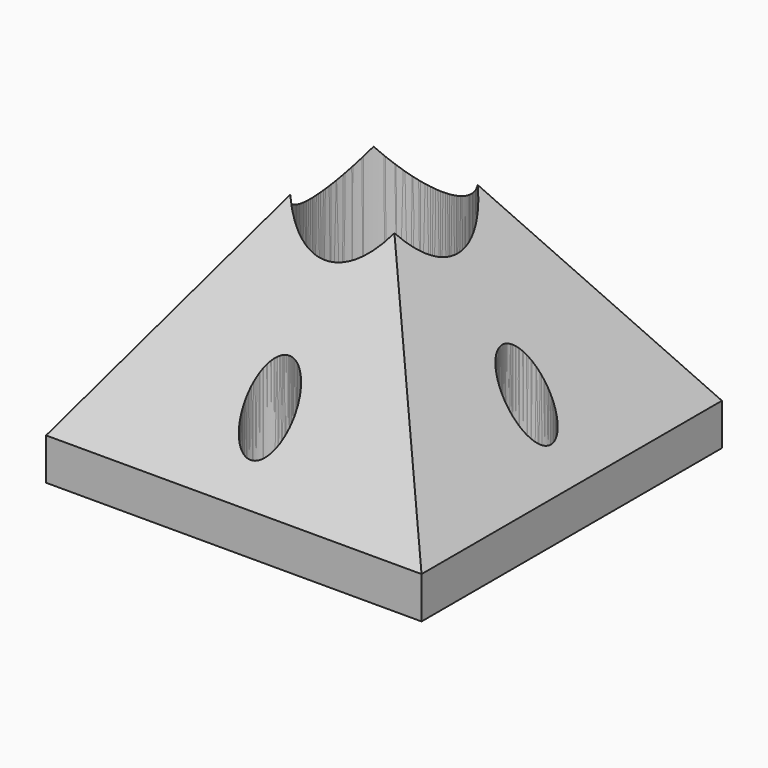
from build123d import *

# Parameters (mm, degrees)
F1_DEPTH  = 34.29
F3_DEPTH  = 34.29
F5_DEPTH  = 38.1
F7_DEPTH  = 38.1
F9_DEPTH  = 38.1
F11_DEPTH = 38.1
F12_R     = 13.462
F13_DEPTH = 53.34
F14_R     = 4.445
F15_DEPTH = 22.86
F16_W     = 68.58
F16_H     = 68.58
F17_DEPTH = 7.62
F18_R     = 2.2225
F19_DEPTH = 12.7


with BuildPart() as f1:
    # F0 (on Front) → F1 (new body, symmetric)
    with BuildSketch(Plane.XZ):
        Polygon((0, 50.8), (-34.29, 0), (34.29, 0), align=None)
    extrude(amount=F1_DEPTH, both=True)

    # F8 (on Right) → F9 (cut, symmetric)
    with BuildSketch(Plane.YZ):
        Polygon((34.29, 50.8), (0, 50.8), (34.29, 0), align=None)
    extrude(amount=F9_DEPTH, both=True, mode=Mode.SUBTRACT)

    # F10 (on Right) → F11 (cut, symmetric)
    with BuildSketch(Plane.YZ):
        Polygon((-34.29, 0), (0, 50.8), (-34.29, 50.8), align=None)
    extrude(amount=F11_DEPTH, both=True, mode=Mode.SUBTRACT)


with BuildPart() as f3:
    # F2 (on Right) → F3 (new body, symmetric)
    with BuildSketch(Plane.YZ):
        Polygon((-34.29, 0), (34.29, 0), (0, 50.8), align=None)
    extrude(amount=F3_DEPTH, both=True)

    # F4 (on Front) → F5 (cut, symmetric)
    with BuildSketch(Plane.XZ):
        Polygon((-34.29, 0), (0, 50.8), (-34.29, 50.8), align=None)
    extrude(amount=F5_DEPTH, both=True, mode=Mode.SUBTRACT)

    # F6 (on Front) → F7 (cut, symmetric)
    with BuildSketch(Plane.XZ):
        Polygon((34.29, 50.8), (0, 50.8), (34.29, 0), align=None)
    extrude(amount=F7_DEPTH, both=True, mode=Mode.SUBTRACT)


with BuildPart() as f13_tool:
    # F12 (on face) → F13 (new body)
    with BuildSketch(Plane(origin=(0, 0, 0), x_dir=(1, 0, 0), z_dir=(0, 0, -1))):
        Circle(F12_R)
    extrude(amount=-F13_DEPTH)


with BuildPart() as f1_1:
    add(f1.part)

    # F13: cut by f13_tool
    add(f13_tool.part, mode=Mode.SUBTRACT)


with BuildPart() as f3_1:
    add(f3.part)

    # F13: cut by f13_tool
    add(f13_tool.part, mode=Mode.SUBTRACT)


with BuildPart() as f15_tool:
    # F14 (on face) → F15 (new body)
    with BuildSketch(Plane(origin=(0, 0, 0), x_dir=(1, 0, 0), z_dir=(0, 0, -1))):
        with Locations((0, 26.035)):
            Circle(F14_R)
        with Locations((26.035, 0)):
            Circle(F14_R)
        with Locations((0, -26.035)):
            Circle(F14_R)
        with Locations((-26.035, 0)):
            Circle(F14_R)
    extrude(amount=-F15_DEPTH)


with BuildPart() as f1_2:
    add(f1_1.part)

    # F15: cut by f15_tool
    add(f15_tool.part, mode=Mode.SUBTRACT)


with BuildPart() as f3_2:
    add(f3_1.part)

    # F15: cut by f15_tool
    add(f15_tool.part, mode=Mode.SUBTRACT)


with BuildPart() as f17:
    # F16 (on face) → F17 (new body)
    with BuildSketch(Plane(origin=(0, 0, 0), x_dir=(1, 0, 0), z_dir=(0, 0, -1))):
        Rectangle(F16_W, F16_H)
    extrude(amount=F17_DEPTH)

    # F18 (on face) → F19 (cut)
    with BuildSketch(Plane(origin=(0, 0, -7.62), x_dir=(1, 0, 0), z_dir=(0, 0, -1))):
        with Locations((0, 26.035049)):
            Circle(F18_R)
        with Locations((-26.034884, 0)):
            Circle(F18_R)
        with Locations((0, -26.034951)):
            Circle(F18_R)
        with Locations((26.035116, 0)):
            Circle(F18_R)
    extrude(amount=-F19_DEPTH, mode=Mode.SUBTRACT)


solid = Compound([f1_2.part, f3_2.part, f17.part])
